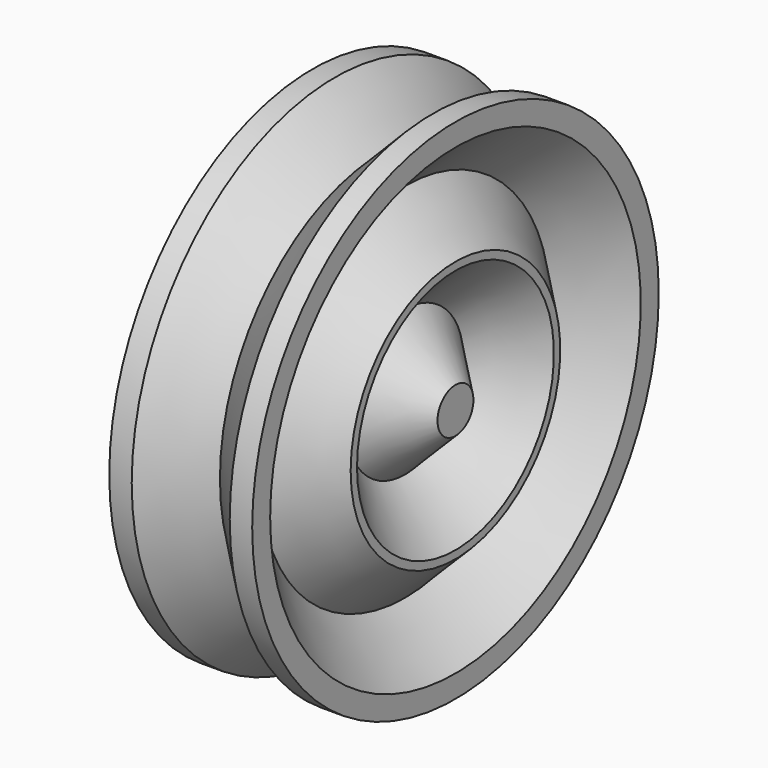
from build123d import *


with BuildPart() as f1:
    # F0 (on Top) → F1 (revolve)
    with BuildSketch(Plane.XY):
        Polygon((2.828427, 0), (0, 0), (0, -2.828427), (6.335786, -9.164214), (0, -15.5), (0, -16.5), (6.335786, -22.835786), (0, -29.171573), (0, -32), (2.828427, -32), (9, -25.828427), (15.171573, -32), (18, -32), (18, -29.171573), (11.664214, -22.835786), (18, -16.5), (18, -15.5), (11.664214, -9.164214), (18, -2.828427), (18, 0), (15.171573, 0), (9, -6.171573), align=None)
        Polygon((5.156854, -16), (9, -12.156854), (12.843146, -16), (9, -19.843146), align=None, mode=Mode.SUBTRACT)
        Polygon((12.843146, -16), (9, -12.156854), (5.156854, -16), (9, -19.843146), align=None)
    revolve(axis=Axis((16.585786, 0, 0), (1, 0, 0)))


solid = f1.part
